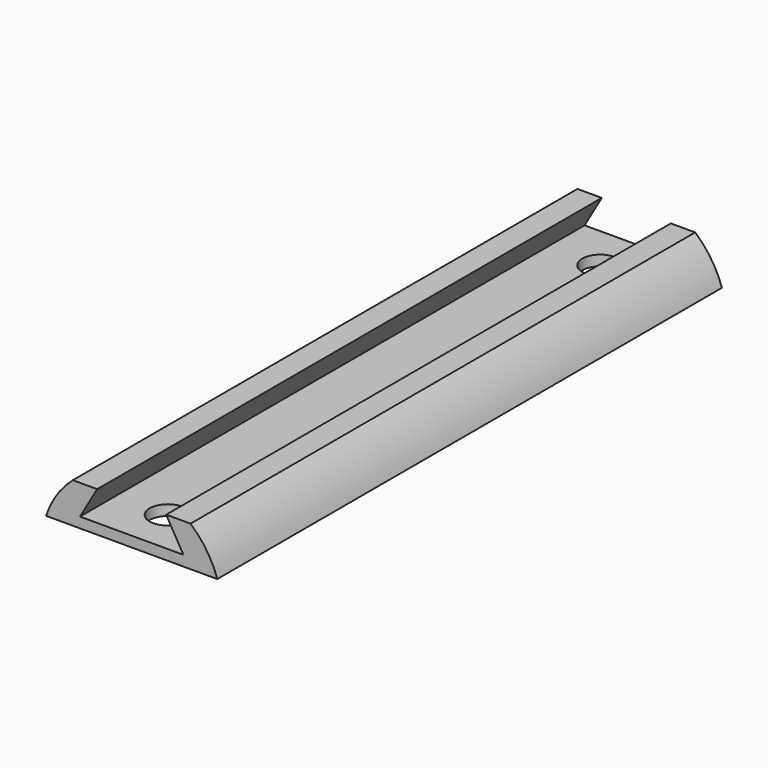
from build123d import *

# Parameters (mm, degrees)
F1_DEPTH = 70
F2_R     = 2
F3_DEPTH = 1.151
F4_DEPTH = 1.151


with BuildPart() as f1:
    # F0 (on Front) → F1 (new body)
    with BuildSketch(Plane.XZ):
        with BuildLine():
            Line((-9.5, 3.122499), (9.5, 3.122499))
            ThreePointArc((9.5, 3.122499), (8.318707, 5.549695), (6.531252, 7.572499))
            Line((6.531252, 7.572499), (3.831252, 7.572499))
            Line((3.831252, 7.572499), (5.736508, 4.272499))
            Line((5.736508, 4.272499), (0, 4.272499))
            Line((0, 4.272499), (-5.736508, 4.272499))
            Line((-5.736508, 4.272499), (-3.831252, 7.572499))
            Line((-3.831252, 7.572499), (-6.531252, 7.572499))
            ThreePointArc((-6.531252, 7.572499), (-8.318707, 5.549695), (-9.5, 3.122499))
        make_face()
    extrude(amount=-F1_DEPTH)

    # F2 (on face) → F3 (cut, through all)
    with BuildSketch(Plane.XY.offset(4.272499)):
        with Locations((0, 5)):
            Circle(F2_R)
    extrude(amount=-F3_DEPTH, mode=Mode.SUBTRACT)

    # F2 (on face) → F4 (cut, through all)
    with BuildSketch(Plane.XY.offset(4.272499)):
        with Locations((0, 5)):
            Circle(F2_R)
        with Locations((0, 65)):
            Circle(F2_R)
    extrude(amount=-F4_DEPTH, mode=Mode.SUBTRACT)


solid = f1.part
